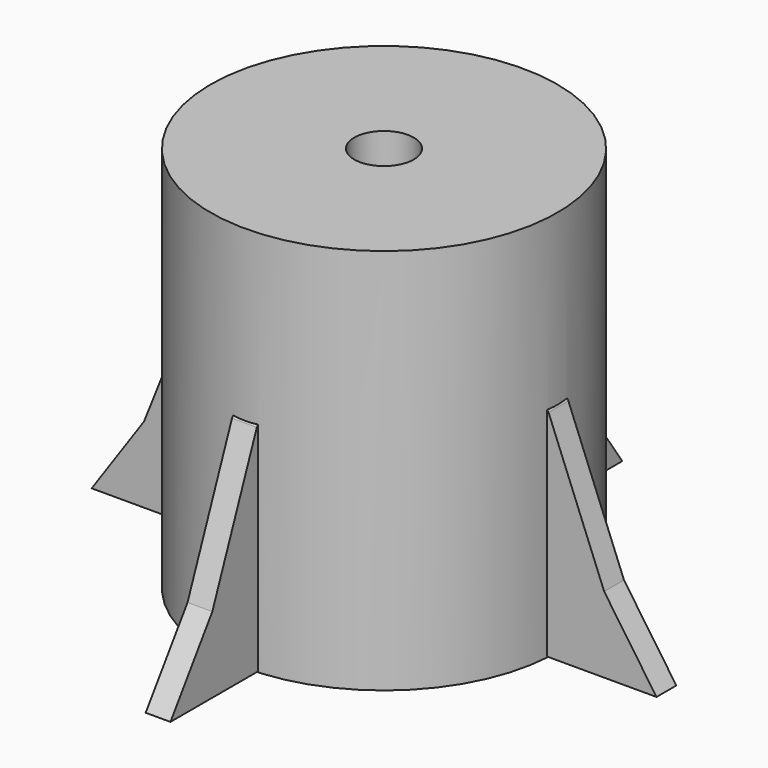
from build123d import *

# Parameters (mm, degrees)
F0_W     = 3.4201149829
F0_H     = 19.8584441096
F0_W_2   = 2.4988718903
F0_W_3   = 1.865520142
F0_W_4   = 2.0727999508
F0_W_5   = 2.0727985539
F0_W_6   = 2.0727962255
F0_W_7   = 2.4873549119
F0_W_8   = 2.9019191861
F0_W_9   = 2.4873595685
F0_W_10  = 2.2800769657
F0_W_11  = 2.9019173235
F0_W_12  = 2.5449345174
F0_W_13  = 1.6582384706
F0_W_14  = 2.0152203453
F3_DEPTH = 2.54
F4_COUNT = 4
F5_R     = 5.1308
F6_DEPTH = 1.016
F7_R     = 6.096
F8_DEPTH = 25.4


with BuildPart() as f1:
    # F0 (on Front) → F1 (revolve)
    with BuildSketch(Plane.XZ):
        Polygon((-35.56, -79.2744270182), (0, -79.2744270182), (0, -19.8584441096), (-3.4201149829, -19.8584441096), (-5.2856351249, -19.8584441096), (-7.3584336787, -19.8584441096), (-9.8457885906, -19.8584441096), (-12.3331481591, -19.8584441096), (-15.2350654826, -19.8584441096), (-17.78, -19.8584441096), (-19.7952203453, -19.8584441096), (-21.4534588158, -19.8584441096), (-23.7335357815, -19.8584441096), (-26.0136127472, -19.8584441096), (-28.9155319333, -19.8584441096), (-30.9883281589, -19.8584441096), (-33.0611281097, -19.8584441096), (-35.56, -19.8584441096), align=None)
        with Locations((-1.7100574914, -9.9292220548)):
            Rectangle(F0_W, F0_H)
        with Locations((-34.3105640548, -9.9292220548)):
            Rectangle(F0_W_2, F0_H)
        with Locations((-4.3528750539, -9.9292220548)):
            Rectangle(F0_W_3, F0_H)
        with Locations((-32.0247281343, -9.9292220548)):
            Rectangle(F0_W_4, F0_H)
        with Locations((-6.3220344018, -9.9292220548)):
            Rectangle(F0_W_5, F0_H)
        with Locations((-29.9519300461, -9.9292220548)):
            Rectangle(F0_W_6, F0_H)
        with Locations((-8.6021111347, -9.9292220548)):
            Rectangle(F0_W_7, F0_H)
        with Locations((-27.4645723403, -9.9292220548)):
            Rectangle(F0_W_8, F0_H)
        with Locations((-11.0894683748, -9.9292220548)):
            Rectangle(F0_W_9, F0_H)
        with Locations((-24.8735742643, -9.9292220548)):
            Rectangle(F0_W_10, F0_H)
        with Locations((-13.7841068208, -9.9292220548)):
            Rectangle(F0_W_11, F0_H)
        with Locations((-22.5934972987, -9.9292220548)):
            Rectangle(F0_W_10, F0_H)
        with Locations((-16.5075327413, -9.9292220548)):
            Rectangle(F0_W_12, F0_H)
        with Locations((-20.6243395805, -9.9292220548)):
            Rectangle(F0_W_13, F0_H)
        with Locations((-18.7876101726, -9.9292220548)):
            Rectangle(F0_W_14, F0_H)
    revolve(axis=Axis((0, 0, -38.7951713055), (0, 0, -1)))

    # F2 (on Front) → F3 (join, symmetric)
    with BuildSketch(Plane.XZ):
        Polygon((35.4841057915, -36.6654805839), (35.1339280605, -79.1006311774), (47.1561551094, -79.1006311774), (47.1561551094, -63.5546445847), (35.755764693, -34.9500365555), (35.4887494468, -34.563057843), align=None)
        Polygon((47.1561551094, -63.5546445847), (47.1561551094, -79.1006311774), (57.8828832321, -79.1006311774), align=None)
    extrude(amount=F3_DEPTH, both=True)

    # F4: F1 ×4 about axis
    f4_axis = Axis((0, 0, -38.7951713055), (0, 0, -1))


with BuildPart() as f1_1:
    add(f1.part)
    for i in range(1, F4_COUNT):
        add(f1.part.rotate(f4_axis, i * 360 / F4_COUNT))

    # F5 (on face) → F6 (cut)
    with BuildSketch(Plane(origin=(0, 0, -79.2744270182), x_dir=(1, 0, 0), z_dir=(0, 0, -1))):
        Circle(F5_R)
        with Locations((-23.9408165216, 0)):
            Circle(F5_R)
        with Locations((0, 23.9408165216)):
            Circle(F5_R)
        with Locations((23.9408165216, 0)):
            Circle(F5_R)
        with Locations((0, -23.9408165216)):
            Circle(F5_R)
    extrude(amount=-F6_DEPTH, mode=Mode.SUBTRACT)

    # F7 (on Top) → F8 (cut)
    with BuildSketch(Plane.XY):
        Circle(F7_R)
    extrude(amount=-F8_DEPTH, mode=Mode.SUBTRACT)


solid = f1_1.part
